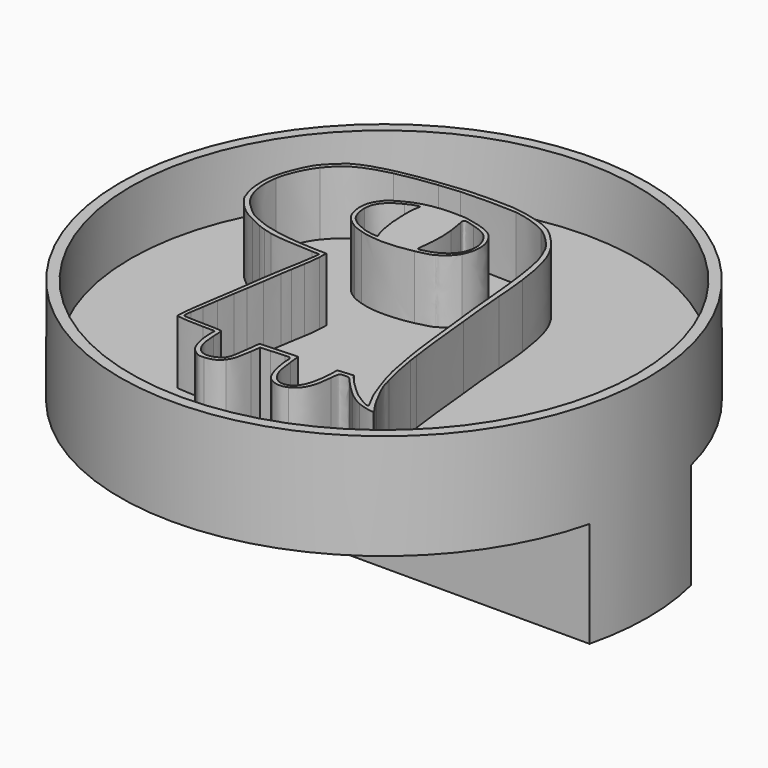
from build123d import *

# Parameters (mm, degrees)
BOX001_W                   = 43
BOX001_H                   = 10
BOX001_DEPTH               = 5
BOX002_W                   = 43
BOX002_H                   = 10
BOX002_DEPTH               = 5
EXTRUDE001_DEPTH           = 5
EXTRUDE001_PLACEMENT_ANGLE = 180
CYLINDER001_R              = 12
CYLINDER001_DEPTH          = 10
CYLINDER_R                 = 12.5
CYLINDER_DEPTH             = 10
CYLINDER002_R              = 12.5
CYLINDER002_DEPTH          = 7


with BuildPart() as cube001:
    # Box001 → Box001 (new body)
    with BuildSketch(Plane(origin=(-32, 8, 0), x_dir=(1, 0, 0), z_dir=(0, 0, 1))):
        with Locations((21.5, 5)):
            Rectangle(BOX001_W, BOX001_H)
    extrude(amount=BOX001_DEPTH)


with BuildPart() as fusion001:
    # Box002 → Box002 (new body)
    with BuildSketch(Plane(origin=(-32, 24, 0), x_dir=(1, 0, 0), z_dir=(0, 0, 1))):
        with Locations((21.5, 5)):
            Rectangle(BOX002_W, BOX002_H)
    extrude(amount=BOX002_DEPTH)

    # Fusion001: union Cube001
    add(cube001.part)


with BuildPart() as extrude001:
    # Scale → Extrude001 (new body)
    with BuildSketch(Plane(origin=(10.102355, 11.276372, 0), x_dir=(0, 1, 0), z_dir=(0, 0, 1))):
        with BuildLine():
            add(Edge.make_bspline(
                [(8.251995, 1.233522), (8.175795, 1.876988), (7.968362, 2.706722), (7.803262, 3.011522)],
                knots=[0, 0, 0, 0, 1, 1, 1, 1], degree=3))
            add(Edge.make_bspline(
                [(7.803262, 3.011522), (7.777862, 3.058088), (7.722828, 3.168155), (7.676262, 3.252822)],
                knots=[0, 0, 0, 0, 1, 1, 1, 1], degree=3))
            add(Edge.make_bspline(
                [(7.676262, 3.252822), (7.629695, 3.337488), (7.485762, 3.519522), (7.354528, 3.654988)],
                knots=[0, 0, 0, 0, 1, 1, 1, 1], degree=3))
            add(Edge.make_bspline(
                [(7.354528, 3.654988), (6.524795, 4.531288), (5.767028, 4.848788), (3.942462, 5.085855)],
                knots=[0, 0, 0, 0, 1, 1, 1, 1], degree=3))
            add(Edge.make_bspline(
                [(3.942462, 5.085855), (3.476795, 5.149355), (2.774062, 5.212855), (2.376128, 5.234022)],
                knots=[0, 0, 0, 0, 1, 1, 1, 1], degree=3))
            add(Edge.make_bspline(
                [(2.376128, 5.234022), (1.982428, 5.255188), (1.419395, 5.301755), (1.127295, 5.339855)],
                knots=[0, 0, 0, 0, 1, 1, 1, 1], degree=3))
            add(Edge.make_bspline(
                [(1.127295, 5.339855), (0.835195, 5.377955), (0.314495, 5.432988), (-0.036872, 5.466855)],
                knots=[0, 0, 0, 0, 1, 1, 1, 1], degree=3))
            add(Edge.make_bspline(
                [(-0.036872, 5.466855), (-1.251838, 5.576922), (-2.873205, 5.758955), (-3.254205, 5.826688)],
                knots=[0, 0, 0, 0, 1, 1, 1, 1], degree=3))
            add(Edge.make_bspline(
                [(-3.254205, 5.826688), (-3.368505, 5.847855), (-3.571705, 5.877488), (-3.698705, 5.890188)],
                knots=[0, 0, 0, 0, 1, 1, 1, 1], degree=3))
            add(Edge.make_bspline(
                [(-3.698705, 5.890188), (-4.088172, 5.936755), (-5.146505, 6.156888), (-5.400505, 6.250022)],
                knots=[0, 0, 0, 0, 1, 1, 1, 1], degree=3))
            add(Edge.make_bspline(
                [(-5.400505, 6.250022), (-5.535972, 6.296588), (-5.671438, 6.334688), (-5.709538, 6.334688)],
                knots=[0, 0, 0, 0, 1, 1, 1, 1], degree=3))
            add(Edge.make_bspline(
                [(-5.709538, 6.334688), (-5.840772, 6.334688), (-6.543505, 6.656422), (-7.000705, 6.923122)],
                knots=[0, 0, 0, 0, 1, 1, 1, 1], degree=3))
            add(Edge.make_bspline(
                [(-7.000705, 6.923122), (-7.369005, 7.134788), (-7.394405, 7.151722), (-7.563738, 7.282955)],
                knots=[0, 0, 0, 0, 1, 1, 1, 1], degree=3))
            add(Edge.make_bspline(
                [(-7.563738, 7.282955), (-7.652638, 7.346455), (-7.737305, 7.393022), (-7.750005, 7.376088)],
                knots=[0, 0, 0, 0, 1, 1, 1, 1], degree=3))
            add(Edge.make_bspline(
                [(-7.750005, 7.376088), (-7.796572, 7.329522), (-7.682272, 6.817288), (-7.563738, 6.563288)],
                knots=[0, 0, 0, 0, 1, 1, 1, 1], degree=3))
            add(Edge.make_bspline(
                [(-7.563738, 6.563288), (-7.466372, 6.347388), (-7.356305, 6.178055), (-7.123472, 5.890188)],
                knots=[0, 0, 0, 0, 1, 1, 1, 1], degree=3))
            add(Edge.make_bspline(
                [(-7.123472, 5.890188), (-6.992238, 5.725088), (-6.463072, 5.204388), (-6.310672, 5.090088)],
                knots=[0, 0, 0, 0, 1, 1, 1, 1], degree=3))
            add(Edge.make_bspline(
                [(-6.310672, 5.090088), (-6.170972, 4.980022), (-6.154038, 4.950388), (-6.154038, 4.772588)],
                knots=[0, 0, 0, 0, 1, 1, 1, 1], degree=3))
            add(Edge.make_bspline(
                [(-6.154038, 4.772588), (-6.154038, 4.666755), (-6.170972, 4.556688), (-6.187905, 4.531288)],
                knots=[0, 0, 0, 0, 1, 1, 1, 1], degree=3))
            add(Edge.make_bspline(
                [(-6.187905, 4.531288), (-6.204838, 4.505888), (-6.386872, 4.472022), (-6.594305, 4.455088)],
                knots=[0, 0, 0, 0, 1, 1, 1, 1], degree=3))
            add(Edge.make_bspline(
                [(-6.594305, 4.455088), (-7.529872, 4.378888), (-7.965905, 4.171455), (-8.181805, 3.701555)],
                knots=[0, 0, 0, 0, 1, 1, 1, 1], degree=3))
            add(Edge.make_bspline(
                [(-8.181805, 3.701555), (-8.308805, 3.422155), (-8.296105, 3.185088), (-8.147938, 2.922622)],
                knots=[0, 0, 0, 0, 1, 1, 1, 1], degree=3))
            add(Edge.make_bspline(
                [(-8.147938, 2.922622), (-8.046338, 2.744822), (-7.978605, 2.685555), (-7.754238, 2.579722)],
                knots=[0, 0, 0, 0, 1, 1, 1, 1], degree=3))
            add(Edge.make_bspline(
                [(-7.754238, 2.579722), (-7.483305, 2.444255), (-6.861005, 2.313022), (-6.509638, 2.313022)],
                knots=[0, 0, 0, 0, 1, 1, 1, 1], degree=3))
            add(Edge.make_bspline(
                [(-6.509638, 2.313022), (-6.293738, 2.313022), (-6.259872, 2.270688), (-6.276805, 2.016688)],
                knots=[0, 0, 0, 0, 1, 1, 1, 1], degree=3))
            add(Edge.make_bspline(
                [(-6.276805, 2.016688), (-6.285272, 1.910855), (-6.302205, 1.618755), (-6.319138, 1.360522)],
                knots=[0, 0, 0, 0, 1, 1, 1, 1], degree=3))
            add(Edge.make_bspline(
                [(-6.319138, 1.360522), (-6.344538, 0.894855)],
                knots=[0, 0, 110.163515, 110.163515], degree=1))
            add(Edge.make_bspline(
                [(-6.344538, 0.894855), (-6.810205, 0.827122)],
                knots=[0, 0, 111.157546, 111.157546], degree=1))
            add(Edge.make_bspline(
                [(-6.810205, 0.827122), (-7.491772, 0.725522), (-7.669572, 0.674722), (-7.893938, 0.509622)],
                knots=[0, 0, 0, 0, 1, 1, 1, 1], degree=3))
            add(Edge.make_bspline(
                [(-7.893938, 0.509622), (-8.122538, 0.344522), (-8.215672, 0.149788), (-8.258005, -0.226978)],
                knots=[0, 0, 0, 0, 1, 1, 1, 1], degree=3))
            add(Edge.make_bspline(
                [(-8.258005, -0.226978), (-8.279172, -0.438645), (-8.266472, -0.497912), (-8.181805, -0.633378)],
                knots=[0, 0, 0, 0, 1, 1, 1, 1], degree=3))
            add(Edge.make_bspline(
                [(-8.181805, -0.633378), (-8.025172, -0.891612), (-7.847372, -1.018612), (-7.529872, -1.111745)],
                knots=[0, 0, 0, 0, 1, 1, 1, 1], degree=3))
            add(Edge.make_bspline(
                [(-7.529872, -1.111745), (-7.178505, -1.213345), (-6.988005, -1.238745), (-6.628172, -1.242978)],
                knots=[0, 0, 0, 0, 1, 1, 1, 1], degree=3))
            add(Edge.make_bspline(
                [(-6.628172, -1.242978), (-6.365705, -1.242978)],
                knots=[0, 0, 62, 62], degree=1))
            add(Edge.make_bspline(
                [(-6.365705, -1.242978), (-6.361472, -1.806012)],
                knots=[0, 0, 133.003759, 133.003759], degree=1))
            add(Edge.make_bspline(
                [(-6.361472, -1.806012), (-6.357238, -2.441012), (-6.314905, -3.042145), (-6.272572, -3.088712)],
                knots=[0, 0, 0, 0, 1, 1, 1, 1], degree=3))
            add(Edge.make_bspline(
                [(-6.272572, -3.088712), (-6.234472, -3.126812), (-5.142272, -2.999812), (-4.545372, -2.889745)],
                knots=[0, 0, 0, 0, 1, 1, 1, 1], degree=3))
            add(Edge.make_bspline(
                [(-4.545372, -2.889745), (-4.299838, -2.847412), (-3.813005, -2.771212), (-3.465872, -2.720412)],
                knots=[0, 0, 0, 0, 1, 1, 1, 1], degree=3))
            add(Edge.make_bspline(
                [(-3.465872, -2.720412), (-3.114505, -2.673845), (-2.716572, -2.618812), (-2.576872, -2.597645)],
                knots=[0, 0, 0, 0, 1, 1, 1, 1], degree=3))
            add(Edge.make_bspline(
                [(-2.576872, -2.597645), (-2.437172, -2.576478), (-2.162005, -2.538378), (-1.963038, -2.512978)],
                knots=[0, 0, 0, 0, 1, 1, 1, 1], degree=3))
            add(Edge.make_bspline(
                [(-1.963038, -2.512978), (-1.764072, -2.487578), (-1.391538, -2.428312), (-1.137538, -2.381745)],
                knots=[0, 0, 0, 0, 1, 1, 1, 1], degree=3))
            add(Edge.make_bspline(
                [(-1.137538, -2.381745), (-0.879305, -2.335178), (-0.413638, -2.250512), (-0.100372, -2.195478)],
                knots=[0, 0, 0, 0, 1, 1, 1, 1], degree=3))
            add(Edge.make_bspline(
                [(-0.100372, -2.195478), (0.212895, -2.140445), (0.555795, -2.089645), (0.661628, -2.081178)],
                knots=[0, 0, 0, 0, 1, 1, 1, 1], degree=3))
            add(Edge.make_bspline(
                [(0.661628, -2.081178), (0.852128, -2.068478)],
                knots=[0, 0, 45.099889, 45.099889], degree=1))
            add(Edge.make_bspline(
                [(0.852128, -2.068478), (0.860595, -2.407145)],
                knots=[0, 0, 80.024996, 80.024996], degree=1))
            add(Edge.make_bspline(
                [(0.860595, -2.407145), (0.890228, -3.355412), (0.966428, -4.261345), (1.038395, -4.511112)],
                knots=[0, 0, 0, 0, 1, 1, 1, 1], degree=3))
            add(Edge.make_bspline(
                [(1.038395, -4.511112), (1.080728, -4.659278), (1.131528, -4.837078), (1.144228, -4.904812)],
                knots=[0, 0, 0, 0, 1, 1, 1, 1], degree=3))
            add(Edge.make_bspline(
                [(1.144228, -4.904812), (1.161162, -4.976778), (1.216195, -5.129178), (1.271228, -5.243478)],
                knots=[0, 0, 0, 0, 1, 1, 1, 1], degree=3))
            add(Edge.make_bspline(
                [(1.271228, -5.243478), (1.326262, -5.362012), (1.432095, -5.590612), (1.512528, -5.751478)],
                knots=[0, 0, 0, 0, 1, 1, 1, 1], degree=3))
            add(Edge.make_bspline(
                [(1.512528, -5.751478), (1.686095, -6.124012), (1.821562, -6.322978), (2.109428, -6.623545)],
                knots=[0, 0, 0, 0, 1, 1, 1, 1], degree=3))
            add(Edge.make_bspline(
                [(2.109428, -6.623545), (2.321095, -6.843678), (2.714795, -7.127312), (2.807928, -7.127312)],
                knots=[0, 0, 0, 0, 1, 1, 1, 1], degree=3))
            add(Edge.make_bspline(
                [(2.807928, -7.127312), (2.833328, -7.127312), (2.934928, -7.165412), (3.040762, -7.211978)],
                knots=[0, 0, 0, 0, 1, 1, 1, 1], degree=3))
            add(Edge.make_bspline(
                [(3.040762, -7.211978), (3.298995, -7.326278), (4.014428, -7.389778), (4.450462, -7.334745)],
                knots=[0, 0, 0, 0, 1, 1, 1, 1], degree=3))
            add(Edge.make_bspline(
                [(4.450462, -7.334745), (4.856862, -7.283945), (5.411428, -7.101912), (5.944828, -6.843678)],
                knots=[0, 0, 0, 0, 1, 1, 1, 1], degree=3))
            add(Edge.make_bspline(
                [(5.944828, -6.843678), (6.275028, -6.682812), (6.402028, -6.589678), (6.732228, -6.263712)],
                knots=[0, 0, 0, 0, 1, 1, 1, 1], degree=3))
            add(Edge.make_bspline(
                [(6.732228, -6.263712), (6.948128, -6.047812), (7.176728, -5.789578), (7.235995, -5.683745)],
                knots=[0, 0, 0, 0, 1, 1, 1, 1], degree=3))
            add(Edge.make_bspline(
                [(7.235995, -5.683745), (7.532328, -5.179978), (7.769395, -4.367178), (7.964128, -3.190312)],
                knots=[0, 0, 0, 0, 1, 1, 1, 1], degree=3))
            add(Edge.make_bspline(
                [(7.964128, -3.190312), (8.061495, -2.597645), (8.112295, -2.165845), (8.239295, -0.967812)],
                knots=[0, 0, 0, 0, 1, 1, 1, 1], degree=3))
            add(Edge.make_bspline(
                [(8.239295, -0.967812), (8.277395, -0.612212), (8.285862, 0.954122), (8.251995, 1.233522)],
                knots=[0, 0, 0, 0, 1, 1, 1, 1], degree=3))
        make_face()
        with BuildLine():
            add(Edge.make_bspline(
                [(8.023395, -1.115978), (8.006462, -1.289545), (7.959895, -1.729812), (7.926028, -2.089645)],
                knots=[0, 0, 0, 0, 1, 1, 1, 1], degree=3))
            add(Edge.make_bspline(
                [(7.926028, -2.089645), (7.858295, -2.741578), (7.739762, -3.486645), (7.621228, -3.973478)],
                knots=[0, 0, 0, 0, 1, 1, 1, 1], degree=3))
            add(Edge.make_bspline(
                [(7.621228, -3.973478), (7.312195, -5.273112), (7.041262, -5.759945), (6.279262, -6.382245)],
                knots=[0, 0, 0, 0, 1, 1, 1, 1], degree=3))
            add(Edge.make_bspline(
                [(6.279262, -6.382245), (5.885562, -6.699745), (5.115095, -7.046878), (4.611328, -7.123078)],
                knots=[0, 0, 0, 0, 1, 1, 1, 1], degree=3))
            add(Edge.make_bspline(
                [(4.611328, -7.123078), (3.823928, -7.245845), (3.210095, -7.135778), (2.630128, -6.771712)],
                knots=[0, 0, 0, 0, 1, 1, 1, 1], degree=3))
            add(Edge.make_bspline(
                [(2.630128, -6.771712), (2.422695, -6.640478), (1.910462, -6.094378), (1.787695, -5.874245)],
                knots=[0, 0, 0, 0, 1, 1, 1, 1], degree=3))
            add(Edge.make_bspline(
                [(1.787695, -5.874245), (1.647995, -5.628712), (1.419395, -5.048745), (1.377062, -4.841312)],
                knots=[0, 0, 0, 0, 1, 1, 1, 1], degree=3))
            add(Edge.make_bspline(
                [(1.377062, -4.841312), (1.364362, -4.760878), (1.317795, -4.578845), (1.279695, -4.439145)],
                knots=[0, 0, 0, 0, 1, 1, 1, 1], degree=3))
            add(Edge.make_bspline(
                [(1.279695, -4.439145), (1.186562, -4.104712), (1.084962, -3.147978), (1.072262, -2.453712)],
                knots=[0, 0, 0, 0, 1, 1, 1, 1], degree=3))
            add(Edge.make_bspline(
                [(1.072262, -2.453712), (1.059562, -1.899145)],
                knots=[0, 0, 131.034347, 131.034347], degree=1))
            add(Edge.make_bspline(
                [(1.059562, -1.899145), (0.678562, -1.911845)],
                knots=[0, 0, 90.049986, 90.049986], degree=1))
            add(Edge.make_bspline(
                [(0.678562, -1.911845), (0.471128, -1.920312), (0.119762, -1.958412), (-0.100372, -2.004978)],
                knots=[0, 0, 0, 0, 1, 1, 1, 1], degree=3))
            add(Edge.make_bspline(
                [(-0.100372, -2.004978), (-0.320505, -2.047312), (-0.608372, -2.093878), (-0.735372, -2.110812)],
                knots=[0, 0, 0, 0, 1, 1, 1, 1], degree=3))
            add(Edge.make_bspline(
                [(-0.735372, -2.110812), (-0.862372, -2.123512), (-1.099438, -2.161612), (-1.264538, -2.195478)],
                knots=[0, 0, 0, 0, 1, 1, 1, 1], degree=3))
            add(Edge.make_bspline(
                [(-1.264538, -2.195478), (-1.425405, -2.229345), (-1.819105, -2.284378), (-2.132372, -2.322478)],
                knots=[0, 0, 0, 0, 1, 1, 1, 1], degree=3))
            add(Edge.make_bspline(
                [(-2.132372, -2.322478), (-2.445638, -2.360578), (-2.818172, -2.419845), (-2.957872, -2.449478)],
                knots=[0, 0, 0, 0, 1, 1, 1, 1], degree=3))
            add(Edge.make_bspline(
                [(-2.957872, -2.449478), (-3.097572, -2.479112), (-3.381205, -2.525678), (-3.592872, -2.555312)],
                knots=[0, 0, 0, 0, 1, 1, 1, 1], degree=3))
            add(Edge.make_bspline(
                [(-3.592872, -2.555312), (-3.800305, -2.580712), (-4.172838, -2.635745), (-4.418372, -2.682312)],
                knots=[0, 0, 0, 0, 1, 1, 1, 1], degree=3))
            add(Edge.make_bspline(
                [(-4.418372, -2.682312), (-4.663905, -2.724645), (-4.977172, -2.775445), (-5.116872, -2.788145)],
                knots=[0, 0, 0, 0, 1, 1, 1, 1], degree=3))
            add(Edge.make_bspline(
                [(-5.116872, -2.788145), (-5.256572, -2.805078), (-5.531738, -2.843178), (-5.726472, -2.881278)],
                knots=[0, 0, 0, 0, 1, 1, 1, 1], degree=3))
            add(Edge.make_bspline(
                [(-5.726472, -2.881278), (-6.022805, -2.932078), (-6.086305, -2.932078), (-6.115938, -2.885512)],
                knots=[0, 0, 0, 0, 1, 1, 1, 1], degree=3))
            add(Edge.make_bspline(
                [(-6.115938, -2.885512), (-6.137105, -2.855878), (-6.154038, -2.525678), (-6.158272, -2.153145)],
                knots=[0, 0, 0, 0, 1, 1, 1, 1], degree=3))
            add(Edge.make_bspline(
                [(-6.158272, -2.153145), (-6.162505, -1.780612), (-6.170972, -1.420778), (-6.175205, -1.348812)],
                knots=[0, 0, 0, 0, 1, 1, 1, 1], degree=3))
            add(Edge.make_bspline(
                [(-6.175205, -1.348812), (-6.183672, -1.281078), (-6.187905, -1.179478), (-6.192138, -1.132912)],
                knots=[0, 0, 0, 0, 1, 1, 1, 1], degree=3))
            add(Edge.make_bspline(
                [(-6.192138, -1.132912), (-6.196372, -1.044012), (-6.221772, -1.039778), (-6.712838, -1.022845)],
                knots=[0, 0, 0, 0, 1, 1, 1, 1], degree=3))
            add(Edge.make_bspline(
                [(-6.712838, -1.022845), (-7.322438, -1.001678), (-7.656872, -0.904312), (-7.885472, -0.675712)],
                knots=[0, 0, 0, 0, 1, 1, 1, 1], degree=3))
            add(Edge.make_bspline(
                [(-7.885472, -0.675712), (-8.071738, -0.489445), (-8.105605, -0.214278), (-7.978605, 0.069355)],
                knots=[0, 0, 0, 0, 1, 1, 1, 1], degree=3))
            add(Edge.make_bspline(
                [(-7.978605, 0.069355), (-7.830438, 0.403788), (-7.716138, 0.475755), (-7.212372, 0.551955)],
                knots=[0, 0, 0, 0, 1, 1, 1, 1], degree=3))
            add(Edge.make_bspline(
                [(-7.212372, 0.551955), (-6.966838, 0.590055), (-6.623938, 0.636622), (-6.450372, 0.653555)],
                knots=[0, 0, 0, 0, 1, 1, 1, 1], degree=3))
            add(Edge.make_bspline(
                [(-6.450372, 0.653555), (-6.132872, 0.683188)],
                knots=[0, 0, 75.325958, 75.325958], degree=1))
            add(Edge.make_bspline(
                [(-6.132872, 0.683188), (-6.103238, 1.233522)],
                knots=[0, 0, 130.188325, 130.188325], degree=1))
            add(Edge.make_bspline(
                [(-6.103238, 1.233522), (-6.090538, 1.534088), (-6.069372, 1.936255), (-6.060905, 2.122522)],
                knots=[0, 0, 0, 0, 1, 1, 1, 1], degree=3))
            add(Edge.make_bspline(
                [(-6.060905, 2.122522), (-6.048205, 2.456955)],
                knots=[0, 0, 79.056942, 79.056942], degree=1))
            add(Edge.make_bspline(
                [(-6.048205, 2.456955), (-6.556205, 2.507755)],
                knots=[0, 0, 120.598507, 120.598507], degree=1))
            add(Edge.make_bspline(
                [(-6.556205, 2.507755), (-7.178505, 2.571255), (-7.424038, 2.626288), (-7.699205, 2.782922)],
                knots=[0, 0, 0, 0, 1, 1, 1, 1], degree=3))
            add(Edge.make_bspline(
                [(-7.699205, 2.782922), (-8.270705, 3.100422), (-8.211438, 3.743888), (-7.589138, 4.027522)],
                knots=[0, 0, 0, 0, 1, 1, 1, 1], degree=3))
            add(Edge.make_bspline(
                [(-7.589138, 4.027522), (-7.292805, 4.158755), (-6.734005, 4.260355), (-6.293738, 4.260355)],
                knots=[0, 0, 0, 0, 1, 1, 1, 1], degree=3))
            add(Edge.make_bspline(
                [(-6.293738, 4.260355), (-5.993172, 4.260355)],
                knots=[0, 0, 71, 71], degree=1))
            add(Edge.make_bspline(
                [(-5.993172, 4.260355), (-5.963538, 4.628655)],
                knots=[0, 0, 87.281155, 87.281155], degree=1))
            add(Edge.make_bspline(
                [(-5.963538, 4.628655), (-5.929672, 4.996955)],
                knots=[0, 0, 87.367042, 87.367042], degree=1))
            add(Edge.make_bspline(
                [(-5.929672, 4.996955), (-6.073605, 5.102788)],
                knots=[0, 0, 42.201896, 42.201896], degree=1))
            add(Edge.make_bspline(
                [(-6.073605, 5.102788), (-6.297972, 5.267888), (-6.882172, 5.864788), (-7.068438, 6.123022)],
                knots=[0, 0, 0, 0, 1, 1, 1, 1], degree=3))
            add(Edge.make_bspline(
                [(-7.068438, 6.123022), (-7.377472, 6.546355), (-7.567972, 6.927355), (-7.466372, 6.927355)],
                knots=[0, 0, 0, 0, 1, 1, 1, 1], degree=3))
            add(Edge.make_bspline(
                [(-7.466372, 6.927355), (-7.440972, 6.927355), (-7.284338, 6.851155), (-7.119238, 6.758022)],
                knots=[0, 0, 0, 0, 1, 1, 1, 1], degree=3))
            add(Edge.make_bspline(
                [(-7.119238, 6.758022), (-6.954138, 6.660655), (-6.721305, 6.550588), (-6.602772, 6.504022)],
                knots=[0, 0, 0, 0, 1, 1, 1, 1], degree=3))
            add(Edge.make_bspline(
                [(-6.602772, 6.504022), (-6.484238, 6.461688), (-6.226005, 6.368555), (-6.027038, 6.292355)],
                knots=[0, 0, 0, 0, 1, 1, 1, 1], degree=3))
            add(Edge.make_bspline(
                [(-6.027038, 6.292355), (-5.646038, 6.152655), (-5.061838, 5.974855), (-4.778205, 5.911355)],
                knots=[0, 0, 0, 0, 1, 1, 1, 1], degree=3))
            add(Edge.make_bspline(
                [(-4.778205, 5.911355), (-4.041605, 5.750488), (-2.771605, 5.543055), (-2.005372, 5.466855)],
                knots=[0, 0, 0, 0, 1, 1, 1, 1], degree=3))
            add(Edge.make_bspline(
                [(-2.005372, 5.466855), (-1.692105, 5.432988), (-1.184105, 5.373722), (-0.883538, 5.339855)],
                knots=[0, 0, 0, 0, 1, 1, 1, 1], degree=3))
            add(Edge.make_bspline(
                [(-0.883538, 5.339855), (-0.578738, 5.301755), (-0.159638, 5.255188), (0.047795, 5.234022)],
                knots=[0, 0, 0, 0, 1, 1, 1, 1], degree=3))
            add(Edge.make_bspline(
                [(0.047795, 5.234022), (0.259462, 5.212855), (0.665862, 5.166288), (0.957962, 5.128188)],
                knots=[0, 0, 0, 0, 1, 1, 1, 1], degree=3))
            add(Edge.make_bspline(
                [(0.957962, 5.128188), (1.250062, 5.094322), (1.774995, 5.043522), (2.122128, 5.022355)],
                knots=[0, 0, 0, 0, 1, 1, 1, 1], degree=3))
            add(Edge.make_bspline(
                [(2.122128, 5.022355), (2.473495, 4.996955), (2.977262, 4.946155), (3.243962, 4.912288)],
                knots=[0, 0, 0, 0, 1, 1, 1, 1], degree=3))
            add(Edge.make_bspline(
                [(3.243962, 4.912288), (3.510662, 4.874188), (3.912828, 4.827622), (4.132962, 4.806455)],
                knots=[0, 0, 0, 0, 1, 1, 1, 1], degree=3))
            add(Edge.make_bspline(
                [(4.132962, 4.806455), (4.353095, 4.785288), (4.687528, 4.730255), (4.873795, 4.687922)],
                knots=[0, 0, 0, 0, 1, 1, 1, 1], degree=3))
            add(Edge.make_bspline(
                [(4.873795, 4.687922), (5.060062, 4.641355), (5.297128, 4.594788), (5.402962, 4.577855)],
                knots=[0, 0, 0, 0, 1, 1, 1, 1], degree=3))
            add(Edge.make_bspline(
                [(5.402962, 4.577855), (5.589228, 4.548222), (6.139562, 4.340788), (6.397795, 4.201088)],
                knots=[0, 0, 0, 0, 1, 1, 1, 1], degree=3))
            add(Edge.make_bspline(
                [(6.397795, 4.201088), (6.740695, 4.023288), (7.295262, 3.472955), (7.498462, 3.117355)],
                knots=[0, 0, 0, 0, 1, 1, 1, 1], degree=3))
            add(Edge.make_bspline(
                [(7.498462, 3.117355), (7.765162, 2.651688), (7.934495, 2.130988), (8.023395, 1.508688)],
                knots=[0, 0, 0, 0, 1, 1, 1, 1], degree=3))
            add(Edge.make_bspline(
                [(8.023395, 1.508688), (8.069962, 1.174255), (8.069962, -0.675712), (8.023395, -1.115978)],
                knots=[0, 0, 0, 0, 1, 1, 1, 1], degree=3))
        make_face(mode=Mode.SUBTRACT)
        with BuildLine():
            add(Edge.make_bspline(
                [(6.520562, 0.323355), (6.363928, 1.191188), (6.173428, 1.682255), (5.910962, 1.906622)],
                knots=[0, 0, 0, 0, 1, 1, 1, 1], degree=3))
            add(Edge.make_bspline(
                [(5.910962, 1.906622), (5.419895, 2.317255), (4.793362, 2.368055), (4.166828, 2.050555)],
                knots=[0, 0, 0, 0, 1, 1, 1, 1], degree=3))
            add(Edge.make_bspline(
                [(4.166828, 2.050555), (3.921295, 1.927788), (3.540295, 1.529855), (3.540295, 1.398622)],
                knots=[0, 0, 0, 0, 1, 1, 1, 1], degree=3))
            add(Edge.make_bspline(
                [(3.540295, 1.398622), (3.540295, 1.364755), (3.523362, 1.339355), (3.502195, 1.339355)],
                knots=[0, 0, 0, 0, 1, 1, 1, 1], degree=3))
            add(Edge.make_bspline(
                [(3.502195, 1.339355), (3.447162, 1.339355), (3.349795, 1.034555), (3.243962, 0.539255)],
                knots=[0, 0, 0, 0, 1, 1, 1, 1], degree=3))
            add(Edge.make_bspline(
                [(3.243962, 0.539255), (3.040762, -0.421712), (3.040762, -1.327645), (3.252428, -1.979578)],
                knots=[0, 0, 0, 0, 1, 1, 1, 1], degree=3))
            add(Edge.make_bspline(
                [(3.252428, -1.979578), (3.315928, -2.187012), (3.400595, -2.407145), (3.438695, -2.466412)],
                knots=[0, 0, 0, 0, 1, 1, 1, 1], degree=3))
            add(Edge.make_bspline(
                [(3.438695, -2.466412), (3.764662, -2.978645), (4.010195, -3.156445), (4.492795, -3.232645)],
                knots=[0, 0, 0, 0, 1, 1, 1, 1], degree=3))
            add(Edge.make_bspline(
                [(4.492795, -3.232645), (4.865328, -3.291912), (5.170128, -3.236878), (5.453762, -3.050612)],
                knots=[0, 0, 0, 0, 1, 1, 1, 1], degree=3))
            add(Edge.make_bspline(
                [(5.453762, -3.050612), (5.762795, -2.851645), (5.813595, -2.788145), (6.071828, -2.318245)],
                knots=[0, 0, 0, 0, 1, 1, 1, 1], degree=3))
            add(Edge.make_bspline(
                [(6.071828, -2.318245), (6.372395, -1.772145), (6.512095, -1.175245), (6.529028, -0.396312)],
                knots=[0, 0, 0, 0, 1, 1, 1, 1], degree=3))
            add(Edge.make_bspline(
                [(6.529028, -0.396312), (6.533262, -0.057645), (6.529028, 0.264088), (6.520562, 0.323355)],
                knots=[0, 0, 0, 0, 1, 1, 1, 1], degree=3))
        make_face()
        with BuildLine():
            add(Edge.make_bspline(
                [(6.071828, 0.441888), (5.970228, 0.467288), (5.661195, 0.518088), (5.381795, 0.551955)],
                knots=[0, 0, 0, 0, 1, 1, 1, 1], degree=3))
            add(Edge.make_bspline(
                [(5.381795, 0.551955), (4.886495, 0.615455), (4.234562, 0.598522), (3.637662, 0.509622)],
                knots=[0, 0, 0, 0, 1, 1, 1, 1], degree=3))
            add(Edge.make_bspline(
                [(3.637662, 0.509622), (3.425995, 0.475755), (3.421762, 0.488455), (3.514895, 0.839822)],
                knots=[0, 0, 0, 0, 1, 1, 1, 1], degree=3))
            add(Edge.make_bspline(
                [(3.514895, 0.839822), (3.671528, 1.449422), (4.044062, 1.906622), (4.484328, 2.042088)],
                knots=[0, 0, 0, 0, 1, 1, 1, 1], degree=3))
            add(Edge.make_bspline(
                [(4.484328, 2.042088), (4.856862, 2.156388), (5.115095, 2.139455), (5.445295, 1.987055)],
                knots=[0, 0, 0, 0, 1, 1, 1, 1], degree=3))
            add(Edge.make_bspline(
                [(5.445295, 1.987055), (5.843228, 1.805022), (6.004095, 1.589122), (6.198828, 0.958355)],
                knots=[0, 0, 0, 0, 1, 1, 1, 1], degree=3))
            add(Edge.make_bspline(
                [(6.198828, 0.958355), (6.363928, 0.437655), (6.346995, 0.374155), (6.071828, 0.441888)],
                knots=[0, 0, 0, 0, 1, 1, 1, 1], degree=3))
        make_face(mode=Mode.SUBTRACT)
        with BuildLine():
            add(Edge.make_bspline(
                [(5.970228, -2.115045), (5.644262, -2.775445), (5.288662, -3.054845), (4.763728, -3.059078)],
                knots=[0, 0, 0, 0, 1, 1, 1, 1], degree=3))
            add(Edge.make_bspline(
                [(4.763728, -3.059078), (4.480095, -3.063312), (4.158362, -2.974412), (3.972095, -2.838945)],
                knots=[0, 0, 0, 0, 1, 1, 1, 1], degree=3))
            add(Edge.make_bspline(
                [(3.972095, -2.838945), (3.815462, -2.720412), (3.608028, -2.445245), (3.561462, -2.297078)],
                knots=[0, 0, 0, 0, 1, 1, 1, 1], degree=3))
            add(Edge.make_bspline(
                [(3.561462, -2.297078), (3.548762, -2.242045), (3.493728, -2.110812), (3.442928, -2.004978)],
                knots=[0, 0, 0, 0, 1, 1, 1, 1], degree=3))
            add(Edge.make_bspline(
                [(3.442928, -2.004978), (3.366728, -1.835645), (3.286295, -1.285312), (3.341328, -1.285312)],
                knots=[0, 0, 0, 0, 1, 1, 1, 1], degree=3))
            add(Edge.make_bspline(
                [(3.341328, -1.285312), (3.349795, -1.285312), (3.442928, -1.323412), (3.544528, -1.365745)],
                knots=[0, 0, 0, 0, 1, 1, 1, 1], degree=3))
            add(Edge.make_bspline(
                [(3.544528, -1.365745), (3.967862, -1.552012), (5.339462, -1.666312), (5.949062, -1.564712)],
                knots=[0, 0, 0, 0, 1, 1, 1, 1], degree=3))
            add(Edge.make_bspline(
                [(5.949062, -1.564712), (6.173428, -1.526612)],
                knots=[0, 0, 53.75872, 53.75872], degree=1))
            add(Edge.make_bspline(
                [(6.173428, -1.526612), (6.143795, -1.670545)],
                knots=[0, 0, 34.71311, 34.71311], degree=1))
            add(Edge.make_bspline(
                [(6.143795, -1.670545), (6.131095, -1.750978), (6.050662, -1.949945), (5.970228, -2.115045)],
                knots=[0, 0, 0, 0, 1, 1, 1, 1], degree=3))
        make_face(mode=Mode.SUBTRACT)
    extrude(amount=EXTRUDE001_DEPTH)


with BuildPart() as extrude001_1:
    # Extrude001 placement: moved
    add(extrude001.part.moved(Location((-4, 9, 10))).rotate(Axis((-4, 9, 10), (0, 1, 0)), EXTRUDE001_PLACEMENT_ANGLE))


with BuildPart() as cylinder001:
    # Cylinder001 → Cylinder001 (new body)
    with BuildSketch(Plane(origin=(-13, 21, 0), x_dir=(1, 0, 0), z_dir=(0, 0, 1))):
        Circle(CYLINDER001_R)
    extrude(amount=CYLINDER001_DEPTH)


with BuildPart() as cut:
    # Cylinder → Cylinder (new body)
    with BuildSketch(Plane(origin=(-13, 21, 0), x_dir=(1, 0, 0), z_dir=(0, 0, 1))):
        Circle(CYLINDER_R)
    extrude(amount=CYLINDER_DEPTH)

    # Cut: cut Cylinder001
    add(cylinder001.part, mode=Mode.SUBTRACT)


with BuildPart() as cut001:
    # Cylinder002 → Cylinder002 (new body)
    with BuildSketch(Plane(origin=(-13, 21, 0), x_dir=(1, 0, 0), z_dir=(0, 0, 1))):
        Circle(CYLINDER002_R)
    extrude(amount=CYLINDER002_DEPTH)

    # Fusion: union Extrude001, Cut
    add(extrude001_1.part)
    add(cut.part)

    # Cut001: cut Fusion001
    add(fusion001.part, mode=Mode.SUBTRACT)


solid = cut001.part
